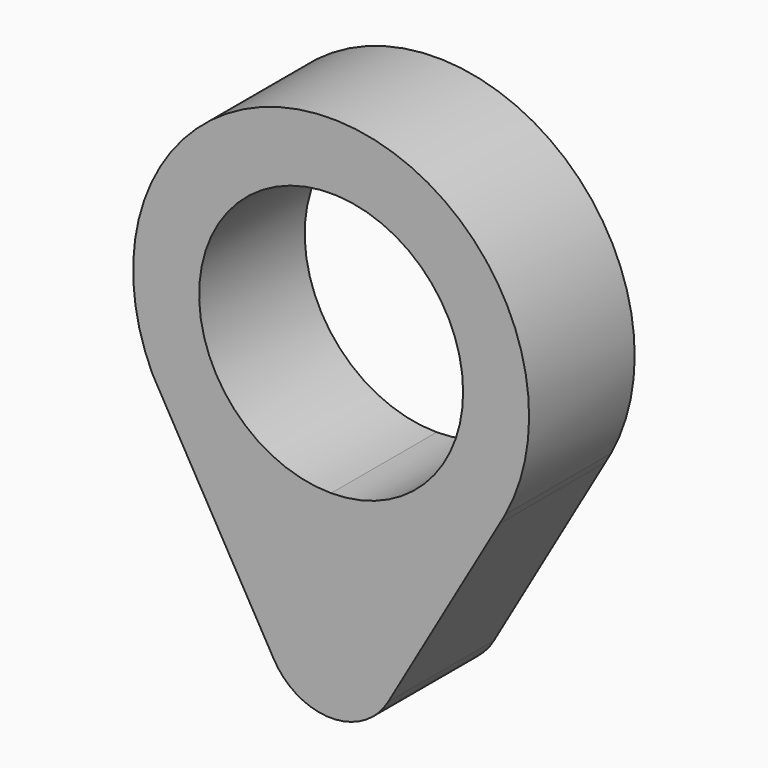
from build123d import *

# Parameters (mm, degrees)
F1_DEPTH = 12.7


with BuildPart() as f1:
    # F0 (on Front) → F1 (new body)
    with BuildSketch(Plane.XZ):
        with BuildLine():
            Line((5.500342, -28.573128), (16.227658, -9.978257))
            Line((16.227658, -9.978257), (16.76142, -9.053028))
            ThreePointArc((16.76142, -9.053028), (0.502926, 19.04336), (-17.215894, -8.155703))
            Line((-17.215894, -8.155703), (-15.728529, -10.74783))
            Line((-15.728529, -10.74783), (-5.507707, -28.560326))
            ThreePointArc((-5.507707, -28.560326), (-0.007385, -31.749996), (5.500342, -28.573128))
        make_face()
        with BuildLine():
            ThreePointArc((0, -12.7), (-8.980256, 8.980256), (12.7, 0))
            ThreePointArc((12.7, 0), (8.980256, -8.980256), (0, -12.7))
        make_face(mode=Mode.SUBTRACT)
    extrude(amount=-F1_DEPTH)


solid = f1.part
